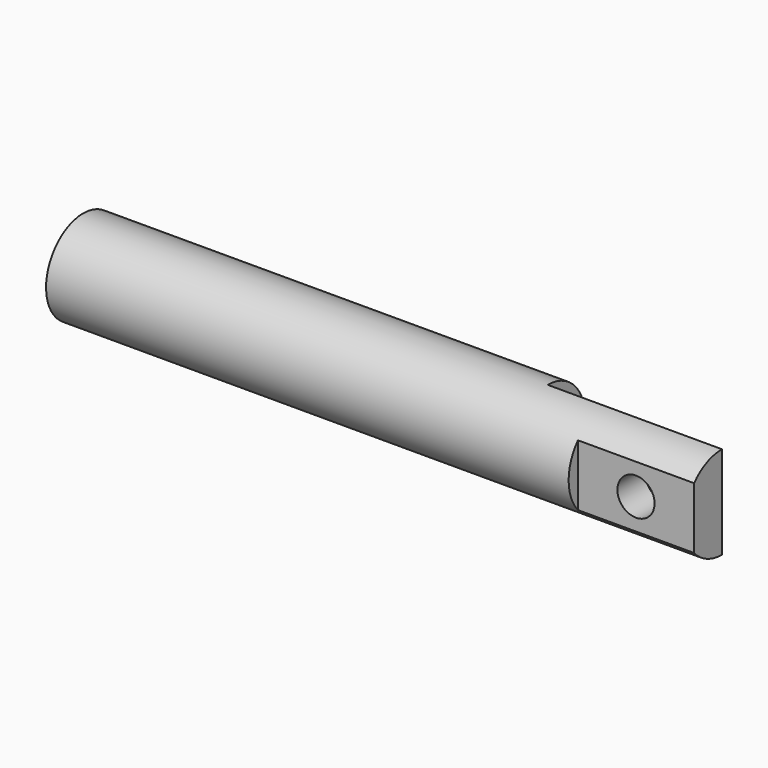
from build123d import *

# Parameters (mm, degrees)
CYLINDER026_R      = 2
CYLINDER026_DEPTH  = 5
CYLINDER035_R      = 1.6
CYLINDER035_DEPTH  = 5
BOX015001017_W     = 10
BOX015001017_H     = 10
BOX015001017_DEPTH = 10
BOX015001016_W     = 15
BOX015001016_H     = 10
BOX015001016_DEPTH = 10
CYLINDER025_R      = 4
CYLINDER025_DEPTH  = 55


with BuildPart() as cylinder036:
    # Cylinder026 → Cylinder026 (new body)
    with BuildSketch(Plane(origin=(-12, 0, 0), x_dir=(0, 0, -1), z_dir=(1, 0, 0))):
        Circle(CYLINDER026_R)
    extrude(amount=CYLINDER026_DEPTH)


with BuildPart() as cylinder035:
    # Cylinder035 → Cylinder035 (new body)
    with BuildSketch(Plane(origin=(38, -4, 0), x_dir=(1, 0, 0), z_dir=(0, 1, 0))):
        Circle(CYLINDER035_R)
    extrude(amount=CYLINDER035_DEPTH)


with BuildPart() as cube020:
    # Box015001017 → Box015001017 (new body)
    with BuildSketch(Plane(origin=(33, -13, -5), x_dir=(1, 0, 0), z_dir=(0, 0, 1))):
        with Locations((5, 5)):
            Rectangle(BOX015001017_W, BOX015001017_H)
    extrude(amount=BOX015001017_DEPTH)


with BuildPart() as cube019:
    # Box015001016 → Box015001016 (new body)
    with BuildSketch(Plane(origin=(28, 0, -5), x_dir=(1, 0, 0), z_dir=(0, 0, 1))):
        with Locations((7.5, 5)):
            Rectangle(BOX015001016_W, BOX015001016_H)
    extrude(amount=BOX015001016_DEPTH)


with BuildPart() as piston:
    # Cylinder025 → Cylinder025 (new body)
    with BuildSketch(Plane.ZY.offset(-43)):
        Circle(CYLINDER025_R)
    extrude(amount=CYLINDER025_DEPTH)

    # Cut004030: cut Cube019
    add(cube019.part, mode=Mode.SUBTRACT)

    # Cut001: cut Cube020
    add(cube020.part, mode=Mode.SUBTRACT)

    # Cut004028: cut Cylinder035
    add(cylinder035.part, mode=Mode.SUBTRACT)

    # Cut003: cut Cylinder036
    add(cylinder036.part, mode=Mode.SUBTRACT)


solid = piston.part
